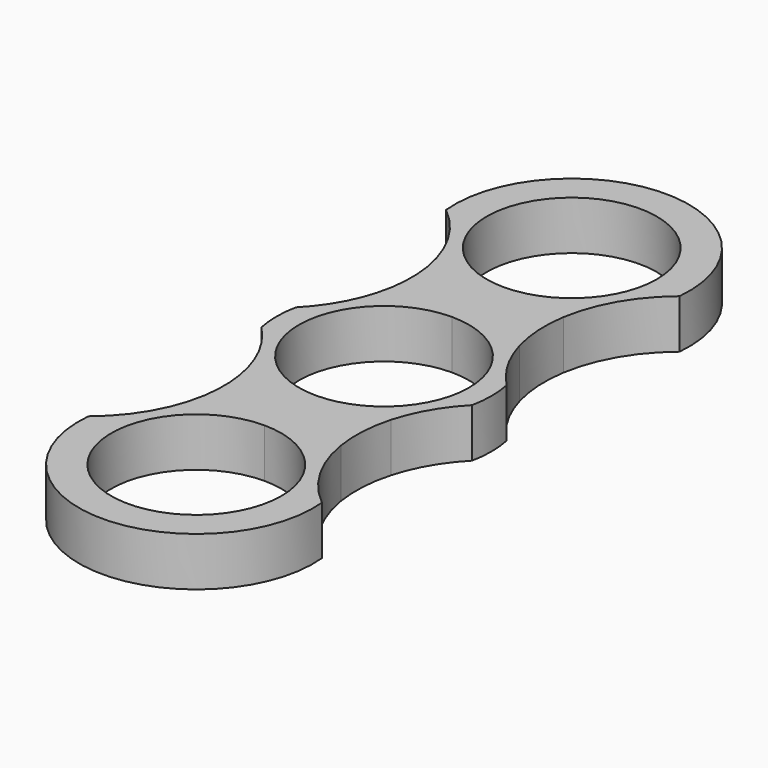
from build123d import *

# Parameters (mm, degrees)
F1_DEPTH = 6.35


with BuildPart() as f1:
    # F0 (on Top) → F1 (new body)
    with BuildSketch(Plane.XY):
        with BuildLine():
            ThreePointArc((-8.8427640474, 18.067783276), (-4.6419509437, 15.9641503371), (0, 15.24))
            ThreePointArc((0, 15.24), (4.6419509437, 15.9641503371), (8.8427640474, 18.067783276))
            ThreePointArc((8.8427640474, 18.067783276), (10.9985226281, 24.13), (15.1706770239, 29.0280500573))
            ThreePointArc((15.1706770239, 29.0280500573), (0, 45.72), (-15.1706770239, 29.0280500573))
            ThreePointArc((-15.1706770239, 29.0280500573), (-10.9985226281, 24.13), (-8.8427640474, 18.067783276))
        make_face()
        with BuildLine():
            ThreePointArc((11.049, 30.48), (7.8128228253, 22.6671771747), (0, 19.431))
            ThreePointArc((0, 19.431), (-7.8128228253, 38.2928228253), (11.049, 30.48))
        make_face(mode=Mode.SUBTRACT)
        with BuildLine():
            Line((0, 15.24), (0, 13.97))
            ThreePointArc((0, 13.97), (4.9605882744, 13.059611938), (9.2746396347, 10.4471029308))
            ThreePointArc((9.2746396347, 10.4471029308), (8.6449373915, 14.2339944405), (8.8427640474, 18.067783276))
            ThreePointArc((8.8427640474, 18.067783276), (4.6419509437, 15.9641503371), (0, 15.24))
        make_face()
        with BuildLine():
            ThreePointArc((-9.2746396347, 10.4471029308), (-4.9605882744, 13.059611938), (0, 13.97))
            Line((0, 13.97), (0, 15.24))
            ThreePointArc((0, 15.24), (-4.6419509437, 15.9641503371), (-8.8427640474, 18.067783276))
            ThreePointArc((-8.8427640474, 18.067783276), (-8.6449373915, 14.2339944405), (-9.2746396347, 10.4471029308))
        make_face()
        with BuildLine():
            ThreePointArc((0, -11.049), (-11.049, 0), (0, 11.049))
            Line((0, 11.049), (0, 13.97))
            ThreePointArc((0, 13.97), (-4.9605882744, 13.059611938), (-9.2746396347, 10.4471029308))
            ThreePointArc((-9.2746396347, 10.4471029308), (-10.9985226281, 6.35), (-13.6847763514, 2.8085220692))
            ThreePointArc((-13.6847763514, 2.8085220692), (-13.97, 0), (-13.6847763514, -2.8085220692))
            ThreePointArc((-13.6847763514, -2.8085220692), (-10.9985226281, -6.35), (-9.2746396347, -10.4471029308))
            ThreePointArc((-9.2746396347, -10.4471029308), (-4.9605882744, -13.059611938), (0, -13.97))
            Line((0, -13.97), (0, -11.049))
        make_face()
        with BuildLine():
            ThreePointArc((0, 11.049), (7.8128228253, 7.8128228253), (11.049, 0))
            ThreePointArc((11.049, 0), (7.8128228253, -7.8128228253), (0, -11.049))
            Line((0, -11.049), (0, -13.97))
            ThreePointArc((0, -13.97), (4.9605882744, -13.059611938), (9.2746396347, -10.4471029308))
            ThreePointArc((9.2746396347, -10.4471029308), (10.9985226281, -6.35), (13.6847763514, -2.8085220692))
            ThreePointArc((13.6847763514, -2.8085220692), (13.97, 0), (13.6847763514, 2.8085220692))
            ThreePointArc((13.6847763514, 2.8085220692), (10.9985226281, 6.35), (9.2746396347, 10.4471029308))
            ThreePointArc((9.2746396347, 10.4471029308), (4.9605882744, 13.059611938), (0, 13.97))
            Line((0, 13.97), (0, 11.049))
        make_face()
        with BuildLine():
            ThreePointArc((9.2746396347, -10.4471029308), (4.9605882744, -13.059611938), (0, -13.97))
            Line((0, -13.97), (0, -15.24))
            ThreePointArc((0, -15.24), (4.6419509437, -15.9641503371), (8.8427640474, -18.067783276))
            ThreePointArc((8.8427640474, -18.067783276), (8.6449373915, -14.2339944405), (9.2746396347, -10.4471029308))
        make_face()
        with BuildLine():
            Line((0, -15.24), (0, -13.97))
            ThreePointArc((0, -13.97), (-4.9605882744, -13.059611938), (-9.2746396347, -10.4471029308))
            ThreePointArc((-9.2746396347, -10.4471029308), (-8.6449373915, -14.2339944405), (-8.8427640474, -18.067783276))
            ThreePointArc((-8.8427640474, -18.067783276), (-4.6419509437, -15.9641503371), (0, -15.24))
        make_face()
        with BuildLine():
            ThreePointArc((8.8427640474, -18.067783276), (4.6419509437, -15.9641503371), (0, -15.24))
            ThreePointArc((0, -15.24), (-4.6419509437, -15.9641503371), (-8.8427640474, -18.067783276))
            ThreePointArc((-8.8427640474, -18.067783276), (-10.9985226281, -24.13), (-15.1706770239, -29.0280500573))
            ThreePointArc((-15.1706770239, -29.0280500573), (0, -45.72), (15.1706770239, -29.0280500573))
            ThreePointArc((15.1706770239, -29.0280500573), (10.9985226281, -24.13), (8.8427640474, -18.067783276))
        make_face()
        with BuildLine():
            ThreePointArc((11.049, -30.48), (-7.8128228253, -38.2928228253), (0, -19.431))
            ThreePointArc((0, -19.431), (7.8128228253, -22.6671771747), (11.049, -30.48))
        make_face(mode=Mode.SUBTRACT)
    extrude(amount=F1_DEPTH)


solid = f1.part
